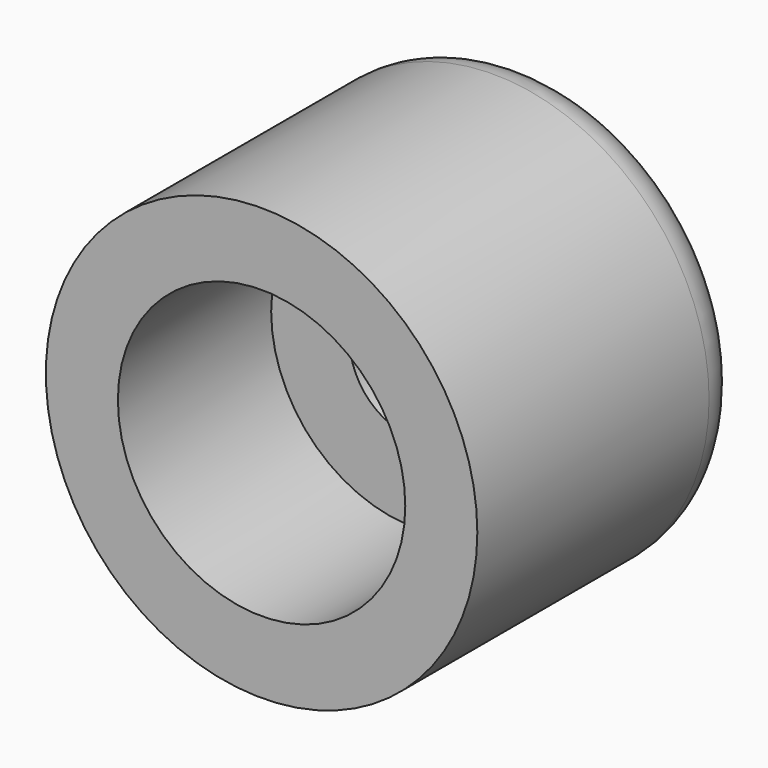
from build123d import *

# Parameters (mm, degrees)
F0_R     = 7.1501
F1_DEPTH = 11.1252
F2_R     = 2.159
F3_DEPTH = 11.1262
F4_R     = 4.7625
F5_DEPTH = 6.35
F6_R     = 1.524


with BuildPart() as f1:
    # F0 (on Front) → F1 (new body)
    with BuildSketch(Plane.XZ):
        Circle(F0_R)
    extrude(amount=F1_DEPTH)

    # F2 (on face) → F3 (cut, through all)
    with BuildSketch(Plane.XZ.offset(11.1252)):
        Circle(F2_R)
    extrude(amount=-F3_DEPTH, mode=Mode.SUBTRACT)

    # F4 (on face) → F5 (cut)
    with BuildSketch(Plane.XZ.offset(11.1252)):
        Circle(F4_R)
    extrude(amount=-F5_DEPTH, mode=Mode.SUBTRACT)

    # F6
    f6_edges = [f1.edges().sort_by_distance(p)[0] for p in [
        (-7.1501, 0, 0),
    ]]
    fillet(f6_edges, radius=F6_R)


solid = f1.part
